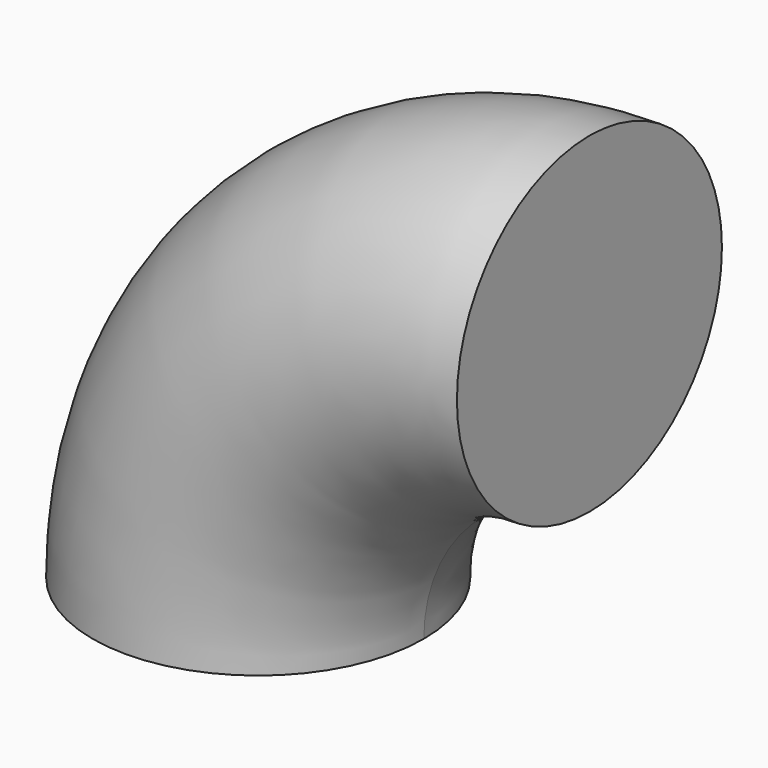
from build123d import *


with BuildPart() as f2:
    # F2: sweep along a path in F0
    with BuildLine(Plane.XZ) as f2_path:
        ThreePointArc((0, 160), (-113.137085, 113.137085), (-160, 0))
    # F1 (on Right) → F2 (sweep)
    with BuildSketch(Plane.YZ):
        with BuildLine():
            ThreePointArc((0, 80), (56.568542, 103.431458), (80, 160))
            ThreePointArc((80, 160), (-56.568542, 216.568542), (0, 80))
        make_face()
    sweep(path=f2_path.line)


solid = f2.part
